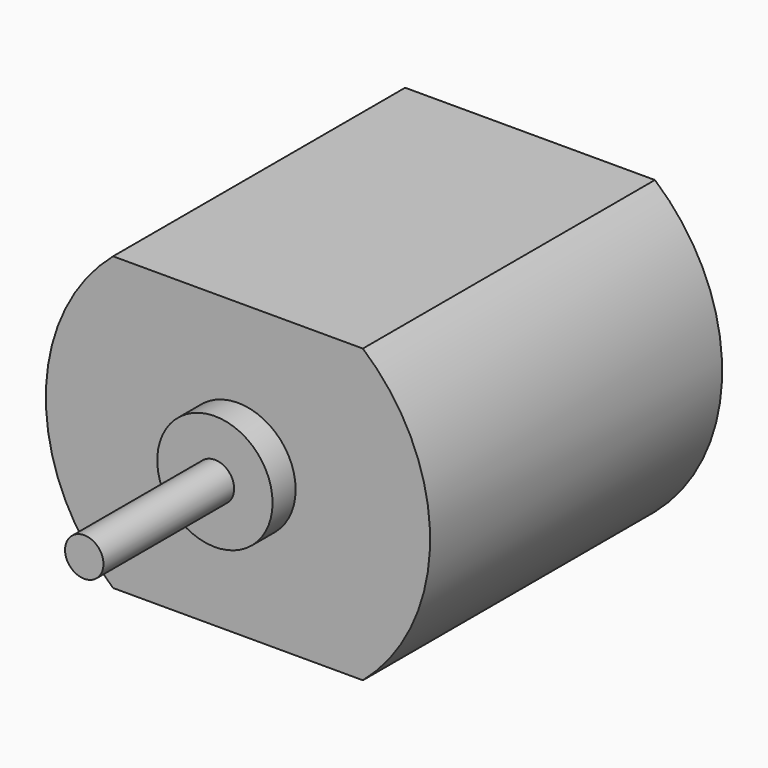
from build123d import *

# Parameters (mm, degrees)
F1_DEPTH = 19
F2_R     = 3
F3_DEPTH = 1.5
F4_R     = 1
F5_DEPTH = 8.5


with BuildPart() as f1:
    # F0 (on Front) → F1 (new body)
    with BuildSketch(Plane.XZ):
        with BuildLine():
            Line((6.5, 7.599342), (-6.5, 7.599342))
            ThreePointArc((-6.5, 7.599342), (-10, 0), (-6.5, -7.599342))
            Line((-6.5, -7.599342), (6.5, -7.599342))
            ThreePointArc((6.5, -7.599342), (10, 0), (6.5, 7.599342))
        make_face()
    extrude(amount=F1_DEPTH)

    # F2 (on face) → F3 (join)
    with BuildSketch(Plane.XZ.offset(19)):
        Circle(F2_R)
    extrude(amount=F3_DEPTH)

    # F4 (on face) → F5 (join)
    with BuildSketch(Plane.XZ.offset(20.5)):
        Circle(F4_R)
    extrude(amount=F5_DEPTH)


solid = f1.part
